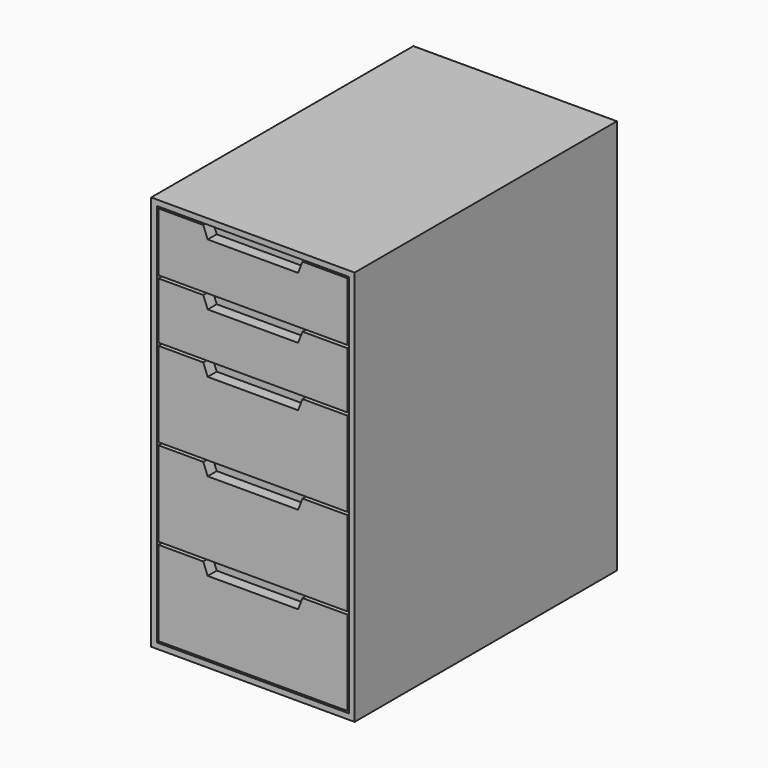
from build123d import *

# Parameters (mm, degrees)
F0_W     = 360
F0_H     = 580
F1_DEPTH = 700
F2_W     = 340
F2_H     = 680
F3_DEPTH = 20


with BuildPart() as f1:
    # F0 (on Top) → F1 (new body)
    with BuildSketch(Plane.XY):
        Rectangle(F0_W, F0_H)
    extrude(amount=F1_DEPTH)

    # F2 (on face) → F3 (cut)
    with BuildSketch(Plane.XZ.offset(290)):
        with Locations((0, 350)):
            Rectangle(F2_W, F2_H)
        Polygon((167, 13), (-167, 13), (-167, 163), (-87.781055, 163), (-80, 143), (80, 143), (87.781055, 163), (167, 163), align=None, mode=Mode.SUBTRACT)
        Polygon((167, 168), (-167, 168), (-167, 318), (-87.781055, 318), (-80, 298), (80, 298), (87.781055, 318), (167, 318), align=None, mode=Mode.SUBTRACT)
        Polygon((167, 323), (-167, 323), (-167, 473), (-87.781055, 473), (-80, 453), (80, 453), (87.781055, 473), (167, 473), align=None, mode=Mode.SUBTRACT)
        Polygon((167, 478), (-167, 478), (-167, 578), (-87.781055, 578), (-80, 558), (80, 558), (87.781055, 578), (167, 578), align=None, mode=Mode.SUBTRACT)
        Polygon((-167, 583), (-167, 687), (-87.781055, 687), (-80, 667), (80, 667), (87.781055, 687), (167, 687), (167, 583), align=None, mode=Mode.SUBTRACT)
    extrude(amount=-F3_DEPTH, mode=Mode.SUBTRACT)


solid = f1.part
